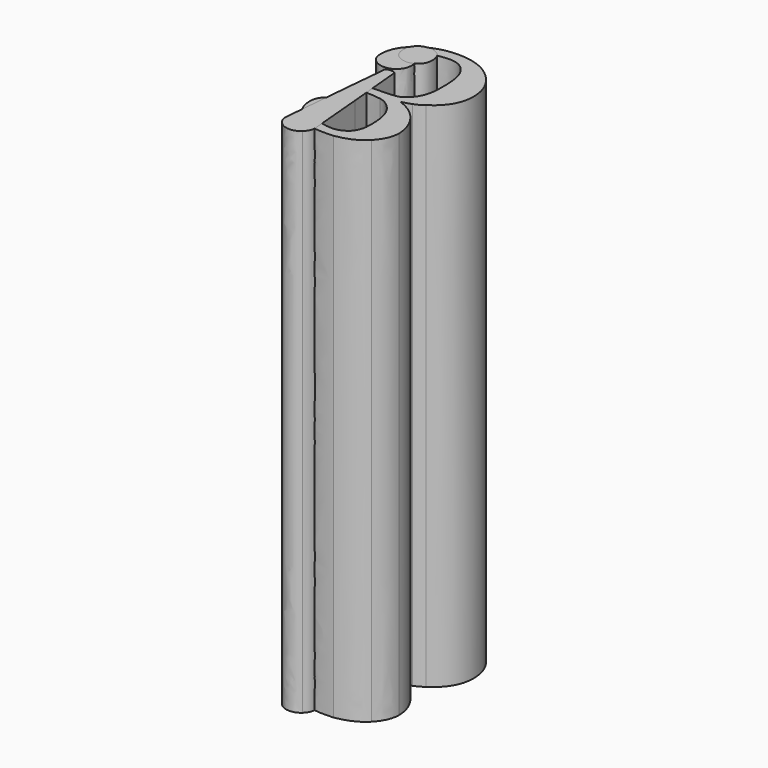
from build123d import *

# Parameters (mm, degrees)
PAD_DEPTH    = 10
PAD001_DEPTH = 10
PAD002_DEPTH = 10


with BuildPart() as body:
    # Sketch → Pad (new body)
    with BuildSketch(Plane.XY):
        with BuildLine():
            add(Edge.make_bspline(
                [(0.6081199657, -2.2170042845), (0.4788346187, -2.2170042845), (0.4070094259, -2.2984061697)],
                knots=[0, 0, 0, 1, 1, 1], degree=2))
            add(Edge.make_bspline(
                [(0.4070094259, -2.2984061697), (0.3351842331, -2.3798080548), (0.3303958869, -2.5090934019)],
                knots=[0, 0, 0, 1, 1, 1], degree=2))
            add(Edge.make_bspline(
                [(0.3303958869, -2.5090934019), (0.3303958869, -2.7724524422), (0.5602365039, -2.9783513282)],
                knots=[0, 0, 0, 1, 1, 1], degree=2))
            add(Edge.make_bspline(
                [(0.5602365039, -2.9783513282), (0.7900771208, -3.1842502142), (1.1156846615, -3.1842502142)],
                knots=[0, 0, 0, 1, 1, 1], degree=2))
            add(Edge.make_bspline(
                [(1.1156846615, -3.1842502142), (1.2832767781, -3.1842502142), (1.3263718937, -3.179461868)],
                knots=[0, 0, 0, 1, 1, 1], degree=2))
            add(Edge.make_bspline(
                [(1.3263718937, -3.179461868), (1.6807095116, -3.1220017138), (1.8674550129, -2.9256795201)],
                knots=[0, 0, 0, 1, 1, 1], degree=2))
            add(Edge.make_bspline(
                [(1.8674550129, -2.9256795201), (2.0542005141, -2.7293573265), (2.0589888603, -2.4995167095)],
                knots=[0, 0, 0, 1, 1, 1], degree=2))
            add(Edge.make_bspline(
                [(2.0589888603, -2.4995167095), (2.0589888603, -2.2505227078), (1.89618509, -2.0158937446)],
                knots=[0, 0, 0, 1, 1, 1], degree=2))
            add(Edge.make_bspline(
                [(1.89618509, -2.0158937446), (1.7333813196, -1.7812647815), (1.4460805484, -1.6759211654)],
                knots=[0, 0, 0, 1, 1, 1], degree=2))
            add(Edge.make_bspline(
                [(1.4460805484, -1.6759211654), (1.4317155099, -1.666344473)],
                knots=[0, 0, 3.6055512755, 3.6055512755], degree=1))
            add(Edge.make_bspline(
                [(1.4317155099, -1.666344473), (1.4317155099, -1.6615561268), (1.4748106255, -1.6519794344)],
                knots=[0, 0, 0, 1, 1, 1], degree=2))
            add(Edge.make_bspline(
                [(1.4748106255, -1.6519794344), (1.5179057412, -1.6424027421), (1.613672665, -1.6088843188)],
                knots=[0, 0, 0, 1, 1, 1], degree=2))
            add(Edge.make_bspline(
                [(1.613672665, -1.6088843188), (1.7094395887, -1.5753658955), (1.7956298201, -1.5083290488)],
                knots=[0, 0, 0, 1, 1, 1], degree=2))
            add(Edge.make_bspline(
                [(1.7956298201, -1.5083290488), (2.1882742074, -1.2545467009), (2.1882742074, -0.8379605827)],
                knots=[0, 0, 0, 1, 1, 1], degree=2))
            add(Edge.make_bspline(
                [(2.1882742074, -0.8379605827), (2.1882742074, -0.4596812339), (1.8913967438, -0.1771688089)],
                knots=[0, 0, 0, 1, 1, 1], degree=2))
            add(Edge.make_bspline(
                [(1.8913967438, -0.1771688089), (1.5945192802, 0.1053436161), (1.1396263925, 0.1053436161)],
                knots=[0, 0, 0, 1, 1, 1], degree=2))
            add(Edge.make_bspline(
                [(1.1396263925, 0.1053436161), (0.7565586975, 0.1053436161), (0.4788346187, -0.1005552699)],
                knots=[0, 0, 0, 1, 1, 1], degree=2))
            add(Edge.make_bspline(
                [(0.4788346187, -0.1005552699), (0.2011105398, -0.306454156), (0.2011105398, -0.6224850043)],
                knots=[0, 0, 0, 1, 1, 1], degree=2))
            add(Edge.make_bspline(
                [(0.2011105398, -0.6224850043), (0.2011105398, -0.7565586975), (0.2873007712, -0.8379605827)],
                knots=[0, 0, 0, 1, 1, 1], degree=2))
            add(Edge.make_bspline(
                [(0.2873007712, -0.8379605827), (0.3734910026, -0.9193624679), (0.5027763496, -0.9241508141)],
                knots=[0, 0, 0, 1, 1, 1], degree=2))
            add(Edge.make_bspline(
                [(0.5027763496, -0.9241508141), (0.6368500428, -0.9241508141), (0.7230402742, -0.8379605827)],
                knots=[0, 0, 0, 1, 1, 1], degree=2))
            add(Edge.make_bspline(
                [(0.7230402742, -0.8379605827), (0.8092305056, -0.7517703513), (0.8092305056, -0.6224850043)],
                knots=[0, 0, 0, 1, 1, 1], degree=2))
            add(Edge.make_bspline(
                [(0.8092305056, -0.6224850043), (0.8092305056, -0.5698131962), (0.794865467, -0.5267180805)],
                knots=[0, 0, 0, 1, 1, 1], degree=2))
            add(Edge.make_bspline(
                [(0.794865467, -0.5267180805), (0.7805004284, -0.4836229649), (0.7613470437, -0.4501045416)],
                knots=[0, 0, 0, 1, 1, 1], degree=2))
            add(Edge.make_bspline(
                [(0.7613470437, -0.4501045416), (0.742193659, -0.4165861183), (0.7086752356, -0.3926443873)],
                knots=[0, 0, 0, 1, 1, 1], degree=2))
            add(Edge.make_bspline(
                [(0.7086752356, -0.3926443873), (0.6751568123, -0.3687026564), (0.6512150814, -0.3543376178)],
                knots=[0, 0, 0, 1, 1, 1], degree=2))
            add(Edge.make_bspline(
                [(0.6512150814, -0.3543376178), (0.6272733505, -0.3399725793), (0.6033316195, -0.3351842331)],
                knots=[0, 0, 0, 1, 1, 1], degree=2))
            add(Edge.make_bspline(
                [(0.6033316195, -0.3351842331), (0.5793898886, -0.3303958869), (0.56502485, -0.3208191945)],
                knots=[0, 0, 0, 1, 1, 1], degree=2))
            add(Edge.make_bspline(
                [(0.56502485, -0.3208191945), (0.5458714653, -0.3160308483)],
                knots=[0, 0, 4.1231056256, 4.1231056256], degree=1))
            add(Edge.make_bspline(
                [(0.5458714653, -0.3160308483), (0.7900771208, -0.1005552699), (1.1396263925, -0.1005552699)],
                knots=[0, 0, 0, 1, 1, 1], degree=2))
            add(Edge.make_bspline(
                [(1.1396263925, -0.1005552699), (1.4029854327, -0.1005552699), (1.537059126, -0.3543376178)],
                knots=[0, 0, 0, 1, 1, 1], degree=2))
            add(Edge.make_bspline(
                [(1.537059126, -0.3543376178), (1.6184610111, -0.512353042), (1.6184610111, -0.8379605827)],
                knots=[0, 0, 0, 1, 1, 1], degree=2))
            add(Edge.make_bspline(
                [(1.6184610111, -0.8379605827), (1.6184610111, -0.9337275064)],
                knots=[0, 0, 20, 20], degree=1))
            add(Edge.make_bspline(
                [(1.6184610111, -0.9337275064), (1.6184610111, -1.3886203942), (1.3120068552, -1.5418474722)],
                knots=[0, 0, 0, 1, 1, 1], degree=2))
            add(Edge.make_bspline(
                [(1.3120068552, -1.5418474722), (1.2401816624, -1.5705775493), (1.0199177378, -1.5753658955)],
                knots=[0, 0, 0, 1, 1, 1], degree=2))
            add(Edge.make_bspline(
                [(1.0199177378, -1.5753658955), (0.8188071979, -1.5801542416)],
                knots=[0, 0, 42.0119030752, 42.0119030752], degree=1))
            add(Edge.make_bspline(
                [(0.8188071979, -1.5801542416), (0.8044421594, -1.589730934)],
                knots=[0, 0, 3.6055512755, 3.6055512755], degree=1))
            add(Edge.make_bspline(
                [(0.8044421594, -1.589730934), (0.794865467, -1.6040959726), (0.794865467, -1.666344473)],
                knots=[0, 0, 0, 1, 1, 1], degree=2))
            add(Edge.make_bspline(
                [(0.794865467, -1.666344473), (0.794865467, -1.7525347044), (0.8331722365, -1.7525347044)],
                knots=[0, 0, 0, 1, 1, 1], degree=2))
            add(Edge.make_bspline(
                [(0.8331722365, -1.7525347044), (0.9672459297, -1.7525347044), (1.1108963153, -1.7764764353)],
                knots=[0, 0, 0, 1, 1, 1], degree=2))
            add(Edge.make_bspline(
                [(1.1108963153, -1.7764764353), (1.2737000857, -1.8004181662), (1.4077737789, -1.9775869751)],
                knots=[0, 0, 0, 1, 1, 1], degree=2))
            add(Edge.make_bspline(
                [(1.4077737789, -1.9775869751), (1.5418474722, -2.1547557841), (1.5418474722, -2.5138817481)],
                knots=[0, 0, 0, 1, 1, 1], degree=2))
            add(Edge.make_bspline(
                [(1.5418474722, -2.5138817481), (1.5418474722, -2.5521885176)],
                knots=[0, 0, 8, 8], degree=1))
            add(Edge.make_bspline(
                [(1.5418474722, -2.5521885176), (1.5418474722, -2.8251242502), (1.3742553556, -2.9304678663)],
                knots=[0, 0, 0, 1, 1, 1], degree=2))
            add(Edge.make_bspline(
                [(1.3742553556, -2.9304678663), (1.2689117395, -2.9975047129), (1.1492030848, -2.9975047129)],
                knots=[0, 0, 0, 1, 1, 1], degree=2))
            add(Edge.make_bspline(
                [(1.1492030848, -2.9975047129), (0.9959760069, -2.9975047129), (0.8666906598, -2.9448329049)],
                knots=[0, 0, 0, 1, 1, 1], degree=2))
            add(Edge.make_bspline(
                [(0.8666906598, -2.9448329049), (0.7374053128, -2.8921610968), (0.6847335047, -2.8347009426)],
                knots=[0, 0, 0, 1, 1, 1], degree=2))
            add(Edge.make_bspline(
                [(0.6847335047, -2.8347009426), (0.6320616967, -2.7772407883), (0.6320616967, -2.7772407883)],
                knots=[0, 0, 0, 1, 1, 1], degree=2))
            add(Edge.make_bspline(
                [(0.6320616967, -2.7772407883), (0.6464267352, -2.7772407883)],
                knots=[0, 0, 3, 3], degree=1))
            add(Edge.make_bspline(
                [(0.6464267352, -2.7772407883), (0.6607917738, -2.7724524422), (0.6847335047, -2.767664096)],
                knots=[0, 0, 0, 1, 1, 1], degree=2))
            add(Edge.make_bspline(
                [(0.6847335047, -2.767664096), (0.7086752356, -2.7628757498), (0.7326169666, -2.743722365)],
                knots=[0, 0, 0, 1, 1, 1], degree=2))
            add(Edge.make_bspline(
                [(0.7326169666, -2.743722365), (0.7565586975, -2.7245689803), (0.7900771208, -2.7102039417)],
                knots=[0, 0, 0, 1, 1, 1], degree=2))
            add(Edge.make_bspline(
                [(0.7900771208, -2.7102039417), (0.8235955441, -2.6958389032), (0.8379605827, -2.6575321337)],
                knots=[0, 0, 0, 1, 1, 1], degree=2))
            add(Edge.make_bspline(
                [(0.8379605827, -2.6575321337), (0.8523256213, -2.6192253642), (0.8762673522, -2.5857069409)],
                knots=[0, 0, 0, 1, 1, 1], degree=2))
            add(Edge.make_bspline(
                [(0.8762673522, -2.5857069409), (0.9002090831, -2.5521885176), (0.8906323907, -2.4899400171)],
                knots=[0, 0, 0, 1, 1, 1], degree=2))
            add(Edge.make_bspline(
                [(0.8906323907, -2.4899400171), (0.8906323907, -2.384596401), (0.8235955441, -2.3031945159)],
                knots=[0, 0, 0, 1, 1, 1], degree=2))
            add(Edge.make_bspline(
                [(0.8235955441, -2.3031945159), (0.7565586975, -2.2217926307), (0.6081199657, -2.2170042845)],
                knots=[0, 0, 0, 1, 1, 1], degree=2))
        make_face()
    extrude(amount=PAD_DEPTH)


with BuildPart() as body001:
    # Sketch001 → Pad001 (new body)
    with BuildSketch(Plane.XY):
        with BuildLine():
            add(Edge.make_bspline(
                [(0.3734910026, -3.1650968295), (0.3734910026, -3.2656520994), (0.4596812339, -3.3470539846)],
                knots=[0, 0, 0, 1, 1, 1], degree=2))
            add(Edge.make_bspline(
                [(0.4596812339, -3.3470539846), (0.5458714653, -3.4284558698), (0.6607917738, -3.4284558698)],
                knots=[0, 0, 0, 1, 1, 1], degree=2))
            add(Edge.make_bspline(
                [(0.6607917738, -3.4284558698), (0.7757120823, -3.4284558698), (0.8619023136, -3.3518423308)],
                knots=[0, 0, 0, 1, 1, 1], degree=2))
            add(Edge.make_bspline(
                [(0.8619023136, -3.3518423308), (0.948092545, -3.2752287918), (0.9528808912, -3.1650968295)],
                knots=[0, 0, 0, 1, 1, 1], degree=2))
            add(Edge.make_bspline(
                [(0.9528808912, -3.1650968295), (0.9528808912, -3.1315784062), (0.8571139674, -2.0685655527)],
                knots=[0, 0, 0, 1, 1, 1], degree=2))
            add(Edge.make_bspline(
                [(0.8571139674, -2.0685655527), (0.7613470437, -1.0055526992), (0.7565586975, -0.9863993145)],
                knots=[0, 0, 0, 1, 1, 1], degree=2))
            add(Edge.make_bspline(
                [(0.7565586975, -0.9863993145), (0.7469820051, -0.948092545), (0.66558012, -0.948092545)],
                knots=[0, 0, 0, 1, 1, 1], degree=2))
            add(Edge.make_bspline(
                [(0.66558012, -0.948092545), (0.5793898886, -0.948092545), (0.5698131962, -0.9863993145)],
                knots=[0, 0, 0, 1, 1, 1], degree=2))
            add(Edge.make_bspline(
                [(0.5698131962, -0.9863993145), (0.56502485, -1.000764353), (0.4692579263, -2.0637772065)],
                knots=[0, 0, 0, 1, 1, 1], degree=2))
            add(Edge.make_bspline(
                [(0.4692579263, -2.0637772065), (0.3734910026, -3.12679006), (0.3734910026, -3.1650968295)],
                knots=[0, 0, 0, 1, 1, 1], degree=2))
        make_face()
    extrude(amount=PAD001_DEPTH)


with BuildPart() as body002:
    # Sketch002 → Pad002 (new body)
    with BuildSketch(Plane.XY):
        with BuildLine():
            add(Edge.make_bspline(
                [(0.3782793488, -0.2920891174), (0.3782793488, -0.4261628106), (0.4644695801, -0.5027763496)],
                knots=[0, 0, 0, 1, 1, 1], degree=2))
            add(Edge.make_bspline(
                [(0.4644695801, -0.5027763496), (0.5506598115, -0.5793898886), (0.6751568123, -0.5793898886)],
                knots=[0, 0, 0, 1, 1, 1], degree=2))
            add(Edge.make_bspline(
                [(0.6751568123, -0.5793898886), (0.7852887746, -0.5698131962), (0.8666906598, -0.4979880034)],
                knots=[0, 0, 0, 1, 1, 1], degree=2))
            add(Edge.make_bspline(
                [(0.8666906598, -0.4979880034), (0.948092545, -0.4261628106), (0.948092545, -0.2920891174)],
                knots=[0, 0, 0, 1, 1, 1], degree=2))
            add(Edge.make_bspline(
                [(0.948092545, -0.2920891174), (0.948092545, -0.1484387318), (0.8666906598, -0.076613539)],
                knots=[0, 0, 0, 1, 1, 1], degree=2))
            add(Edge.make_bspline(
                [(0.8666906598, -0.076613539), (0.7852887746, -0.0047883462), (0.66558012, -0.0047883462)],
                knots=[0, 0, 0, 1, 1, 1], degree=2))
            add(Edge.make_bspline(
                [(0.66558012, -0.0047883462), (0.5458714653, -0.0047883462), (0.4644695801, -0.076613539)],
                knots=[0, 0, 0, 1, 1, 1], degree=2))
            add(Edge.make_bspline(
                [(0.4644695801, -0.076613539), (0.3830676949, -0.1484387318), (0.3782793488, -0.2920891174)],
                knots=[0, 0, 0, 1, 1, 1], degree=2))
        make_face()
    extrude(amount=PAD002_DEPTH)


solid = Compound([body.part, body001.part, body002.part])
